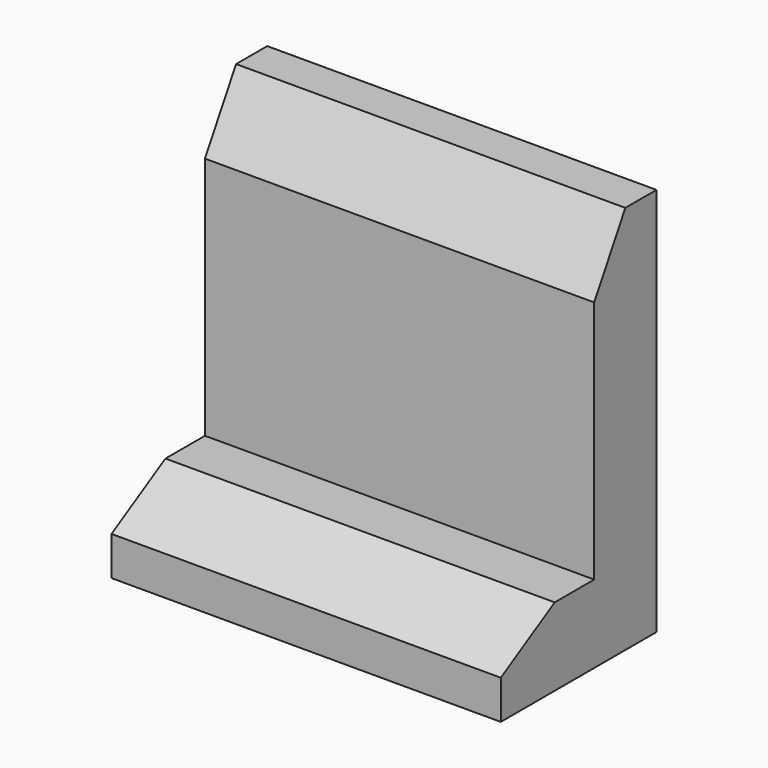
from build123d import *

# Parameters (mm, degrees)
F0_W     = 100
F0_H     = 100
F1_DEPTH = 50
F3_DEPTH = 100.001


with BuildPart() as f1:
    # F0 (on Front) → F1 (new body)
    with BuildSketch(Plane.XZ):
        Rectangle(F0_W, F0_H)
    extrude(amount=F1_DEPTH)

    # F2 (on face) → F3 (cut, through all)
    with BuildSketch(Plane.YZ.offset(50)):
        Polygon((-32.679492, -30), (-20, -30), (-20, 32.679492), (-20, 130), (-80, 130), (-80, -30), align=None)
        Polygon((-20, 50), (-20, 32.679492), (-10, 50), align=None)
        Polygon((-50, -40), (-32.679492, -30), (-50, -30), align=None)
    extrude(amount=-F3_DEPTH, mode=Mode.SUBTRACT)


solid = f1.part
